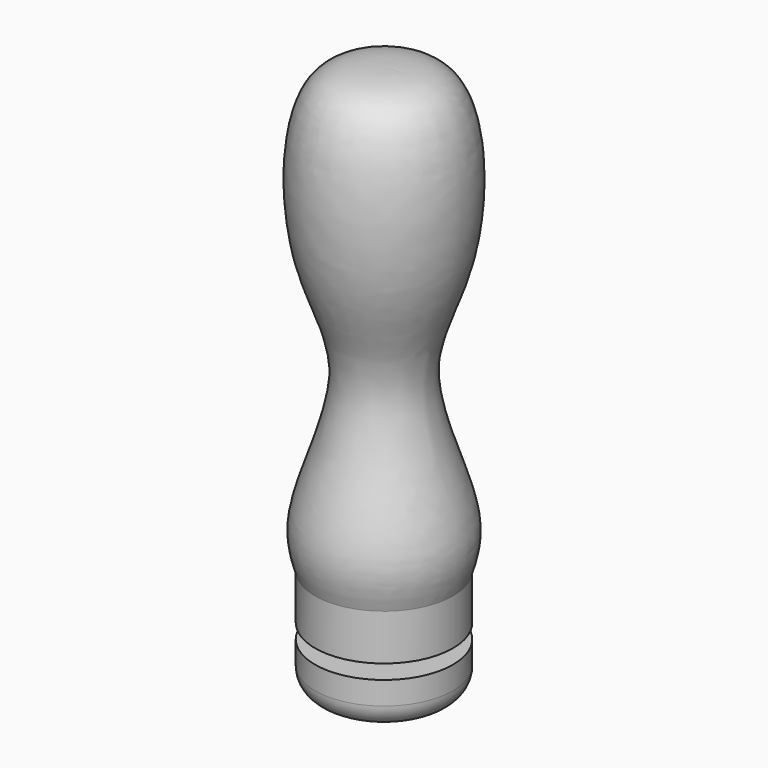
from build123d import *


with BuildPart() as f1:
    # F0 (on Front) → F1 (revolve)
    with BuildSketch(Plane.XZ):
        with BuildLine():
            Line((0, 76.2), (0, 0))
            Line((0, 0), (6.35, 0))
            ThreePointArc((6.35, 0), (8.5950640303, 0.9299359697), (9.525, 3.175))
            Line((9.525, 3.175), (9.525, 6.35))
            Line((9.525, 6.35), (3.175, 6.35))
            Line((3.175, 6.35), (3.175, 8.35))
            Line((3.175, 8.35), (9.525, 8.35))
            Line((9.525, 8.35), (9.525, 14.7))
            add(Edge.make_bspline(
                [(0, 76.2), (3.168798384, 76.1437072296), (11.1827318992, 76.0013439789), (11.5605251086, 51.7730056699), (2.8817099393, 39.4723955532), (11.6856190133, 21.9527870322), (10.1300446041, 16.7310482843), (9.525, 14.7)],
                knots=[0, 0, 0, 0, 0.1621620078, 0.4101099439, 0.6253550155, 0.854278438, 1, 1, 1, 1], degree=3))
        make_face()
    revolve(axis=Axis((0, 0, 38.1), (0, 0, 1)))


solid = f1.part
